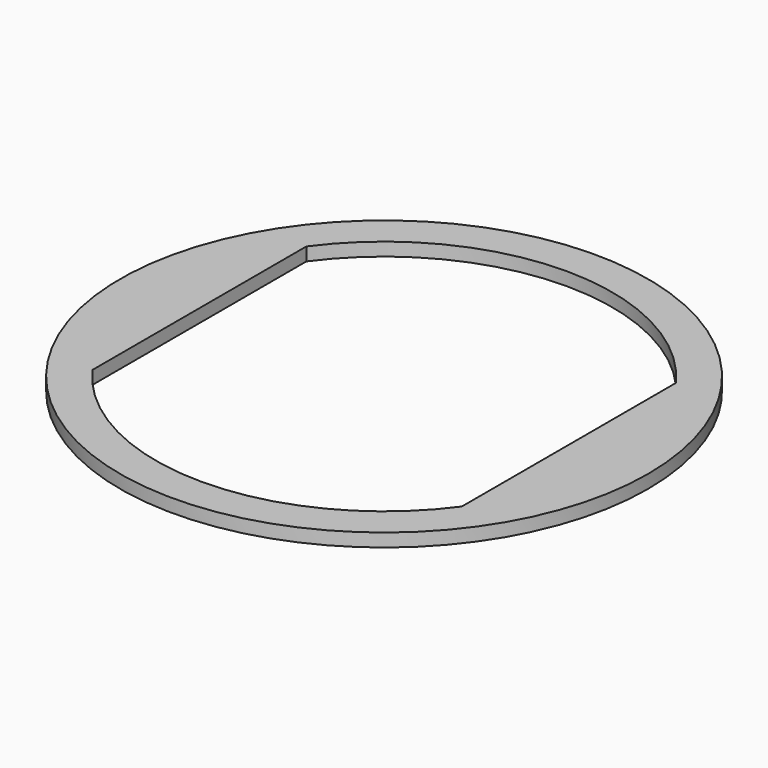
from build123d import *

# Parameters (mm, degrees)
F0_R     = 10
F1_DEPTH = 0.5
F3_DEPTH = 25


with BuildPart() as f1:
    # F0 (on Top) → F1 (new body)
    with BuildSketch(Plane.XY):
        Circle(F0_R)
    extrude(amount=F1_DEPTH)

    # F2 (on face) → F3 (cut)
    with BuildSketch(Plane.XY.offset(0.5)):
        with BuildLine():
            Line((7, -5.06905), (7, 5.06905))
            ThreePointArc((7, 5.06905), (0, 8.642642), (-7, 5.06905))
            Line((-7, 5.06905), (-7, -5.06905))
            ThreePointArc((-7, -5.06905), (0, -8.642642), (7, -5.06905))
        make_face()
    extrude(amount=-F3_DEPTH, mode=Mode.SUBTRACT)


solid = f1.part
